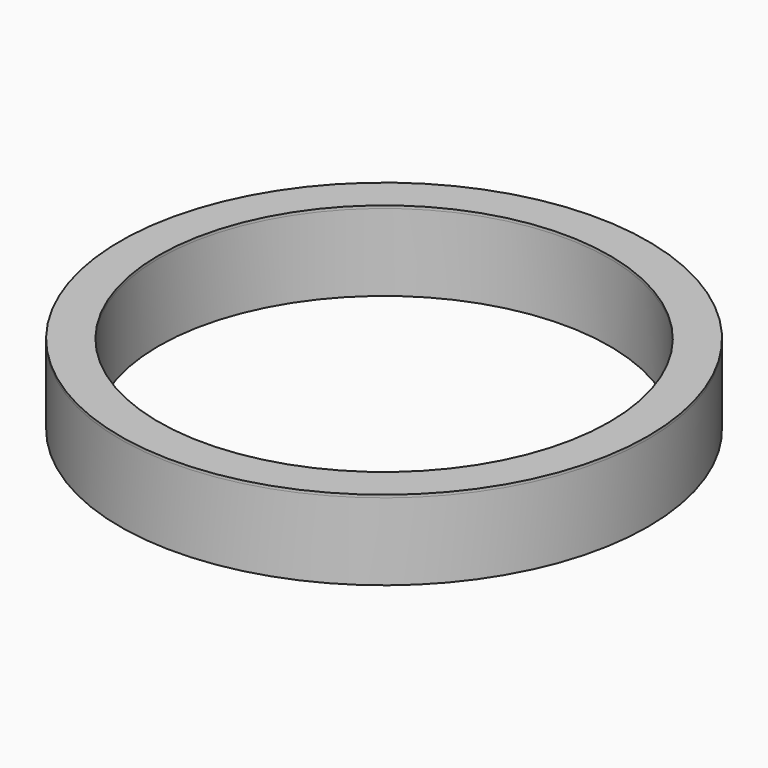
from build123d import *

# Parameters (mm, degrees)
F0_R        = 48
F0_R_2      = 41
F1_DEPTH    = 14
F1_FACE_R   = 48
F1_FACE_R_2 = 41
F2_DEPTH    = 0.5


with BuildPart() as f1:
    # F0 (on Top) → F1 (new body)
    with BuildSketch(Plane.XY):
        Circle(F0_R)
        Circle(F0_R_2, mode=Mode.SUBTRACT)
    extrude(amount=-F1_DEPTH)


with BuildPart() as f2:
    # F1_face (on face) → F2 (new body)
    with BuildSketch(Plane.XY):
        Circle(F1_FACE_R)
        Circle(F1_FACE_R_2, mode=Mode.SUBTRACT)
    extrude(amount=F2_DEPTH)


solid = Compound([f1.part, f2.part])
